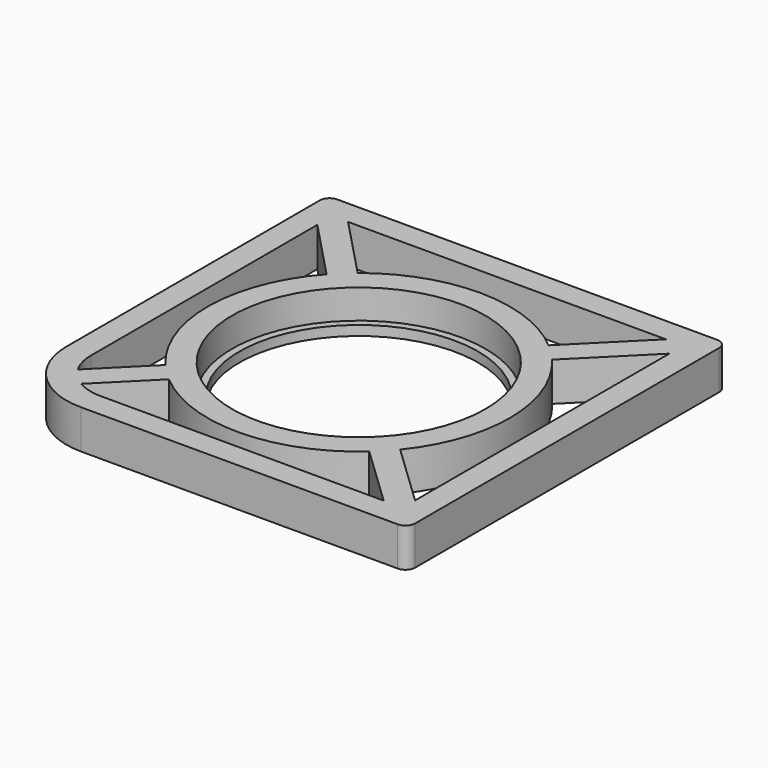
from build123d import *

# Parameters (mm, degrees)
PAD_DEPTH       = 8
SKETCH001_R     = 26
POCKET_DEPTH    = 8.001
POCKET001_DEPTH = 8.001
POCKET002_DEPTH = 8.001
POCKET003_DEPTH = 8.001
POCKET004_DEPTH = 8.001
SKETCH006_R     = 26
SKETCH006_R_2   = 24.5
PAD001_DEPTH    = 2


with BuildPart() as part:
    # Sketch → Pad (new body)
    with BuildSketch(Plane.XY):
        with BuildLine():
            Line((-41, 39), (-41, -26))
            ThreePointArc((-41, -26), (-36.606602, -36.606602), (-26, -41))
            Line((-26, -41), (39, -41))
            ThreePointArc((39, -41), (40.414214, -40.414214), (41, -39))
            Line((41, -39), (41, 39))
            ThreePointArc((41, 39), (40.414214, 40.414214), (39, 41))
            Line((39, 41), (-39, 41))
            ThreePointArc((-39, 41), (-40.414214, 40.414214), (-41, 39))
        make_face()
    extrude(amount=PAD_DEPTH)

    # Sketch001 (on DatumPlane) → Pocket (cut, through all)
    with BuildSketch(Plane.XY.offset(8)):
        with Locations((-1, -1)):
            Circle(SKETCH001_R)
    extrude(amount=-POCKET_DEPTH, mode=Mode.SUBTRACT)

    # Sketch002 (on DatumPlane) → Pocket001 (cut, through all)
    with BuildSketch(Plane.XY.offset(8)):
        with BuildLine():
            Line((-26, -36), (32.125, -36))
            Line((32.125, -36), (19.651021, -24.12002))
            ThreePointArc((-21.081146, -24.61668), (-0.622036, -31.997696), (19.651021, -24.12002))
            Line((-21.081146, -24.61668), (-31.078765, -34.614299))
            ThreePointArc((-31.078765, -34.614299), (-28.632205, -35.647357), (-26, -36))
        make_face()
    extrude(amount=-POCKET001_DEPTH, mode=Mode.SUBTRACT)

    # Sketch003 (on DatumPlane) → Pocket002 (cut, through all)
    with BuildSketch(Plane.XY.offset(8)):
        with BuildLine():
            ThreePointArc((-36, -26), (-35.647357, -28.632205), (-34.614299, -31.078765))
            Line((-34.614299, -31.078765), (-24.61668, -21.081146))
            ThreePointArc((-24.12002, 19.651021), (-31.997696, -0.622036), (-24.61668, -21.081146))
            Line((-36, 32.125), (-24.12002, 19.651021))
            Line((-36, 32.125), (-36, -26))
        make_face()
    extrude(amount=-POCKET002_DEPTH, mode=Mode.SUBTRACT)

    # Sketch004 (on DatumPlane) → Pocket003 (cut, through all)
    with BuildSketch(Plane.XY.offset(8)):
        with BuildLine():
            Line((-32.785714, 36), (32.464466, 36))
            Line((32.464466, 36), (19.081146, 22.61668))
            ThreePointArc((19.081146, 22.61668), (-0.622036, 29.997696), (-20.49933, 23.099297))
            Line((-20.49933, 23.099297), (-32.785714, 36))
        make_face()
    extrude(amount=-POCKET003_DEPTH, mode=Mode.SUBTRACT)

    # Sketch005 (on DatumPlane) → Pocket004 (cut, through all)
    with BuildSketch(Plane.XY.offset(8)):
        with BuildLine():
            Line((36, 32.464466), (36, -32.785714))
            Line((36, -32.785714), (23.099297, -20.49933))
            ThreePointArc((23.099297, -20.49933), (29.997696, -0.622036), (22.61668, 19.081146))
            Line((36, 32.464466), (22.61668, 19.081146))
        make_face()
    extrude(amount=-POCKET004_DEPTH, mode=Mode.SUBTRACT)

    # Sketch006 → Pad001 (join)
    with BuildSketch(Plane.XY):
        with Locations((-1, -1)):
            Circle(SKETCH006_R)
        with Locations((-1, -1)):
            Circle(SKETCH006_R_2, mode=Mode.SUBTRACT)
    extrude(amount=PAD001_DEPTH)


solid = part.part
